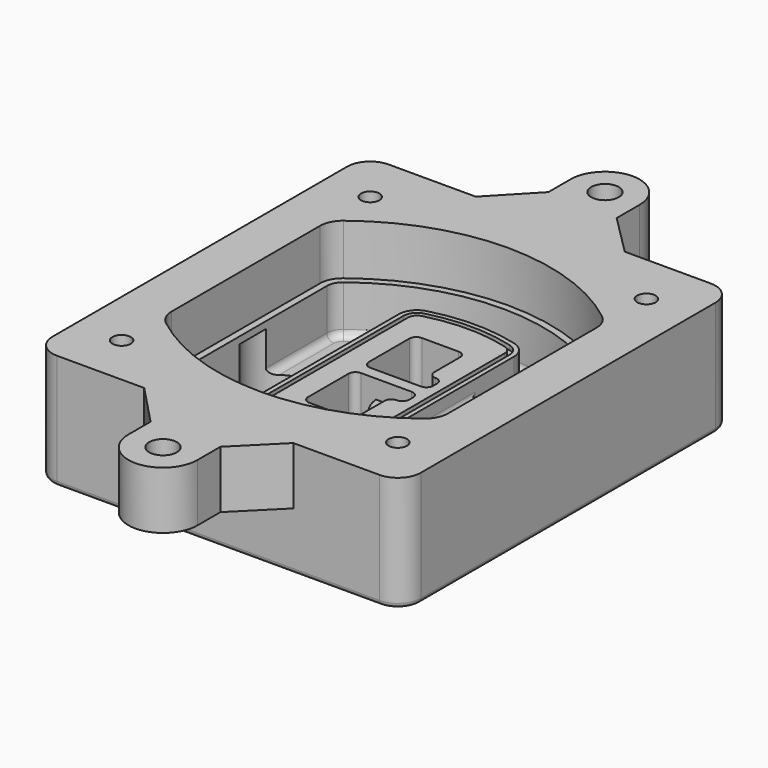
from build123d import *

# Parameters (mm, degrees)
F0_R      = 4
F1_DEPTH  = 25
F2_DEPTH  = 3
F3_DEPTH  = 18
F5_DEPTH  = 21
F6_DEPTH  = 2
F8_DEPTH  = 20
F9_DEPTH  = 16
F10_DEPTH = 25
F7_R      = 6
F7_R_2    = 4
F11_DEPTH = 6
F13_DEPTH = 9
F14_R     = 3
F15_R     = 2
F16_R     = 6
F16_R_2   = 4
F17_DEPTH = 25


with BuildPart() as f1:
    # F0 (on Top) → F1 (new body)
    with BuildSketch(Plane.XY):
        with BuildLine():
            ThreePointArc((-80, -80), (-77.0710678119, -87.0710678119), (-70, -90))
            Line((-70, -90), (70, -90))
            ThreePointArc((70, -90), (77.0710678119, -87.0710678119), (80, -80))
            Line((80, -80), (80, 80))
            ThreePointArc((80, 80), (77.0710678119, 87.0710678119), (70, 90))
            Line((70, 90), (-70, 90))
            ThreePointArc((-70, 90), (-77.0710678119, 87.0710678119), (-80, 80))
            Line((-80, 80), (-80, -80))
        make_face()
        with Locations((-60, -67.5)):
            Circle(F0_R, mode=Mode.SUBTRACT)
        with Locations((60, -67.5)):
            Circle(F0_R, mode=Mode.SUBTRACT)
        with Locations((-60, 67.5)):
            Circle(F0_R, mode=Mode.SUBTRACT)
        with BuildLine():
            ThreePointArc((-64, 40.2934422872), (-62.5820384798, 46.4328484224), (-58.6153846154, 51.3286200352))
            ThreePointArc((-58.6153846154, 51.3286200352), (0, 71.5), (58.6153846154, 51.3286200352))
            ThreePointArc((58.6153846154, 51.3286200352), (62.5820384798, 46.4328484224), (64, 40.2934422872))
            Line((64, 40.2934422872), (64, -40.2934422872))
            ThreePointArc((64, -40.2934422872), (62.5820384798, -46.4328484224), (58.6153846154, -51.3286200352))
            ThreePointArc((58.6153846154, -51.3286200352), (0, -71.5), (-58.6153846154, -51.3286200352))
            ThreePointArc((-58.6153846154, -51.3286200352), (-62.5820384798, -46.4328484224), (-64, -40.2934422872))
            Line((-64, -40.2934422872), (-64, 40.2934422872))
        make_face(mode=Mode.SUBTRACT)
        with Locations((60, 67.5)):
            Circle(F0_R, mode=Mode.SUBTRACT)
        with BuildLine():
            ThreePointArc((58.6153846154, 51.3286200352), (0, 71.5), (-58.6153846154, 51.3286200352))
            ThreePointArc((-58.6153846154, 51.3286200352), (-62.5820384798, 46.4328484224), (-64, 40.2934422872))
            Line((-64, 40.2934422872), (-64, -40.2934422872))
            ThreePointArc((-64, -40.2934422872), (-62.5820384798, -46.4328484224), (-58.6153846154, -51.3286200352))
            ThreePointArc((-58.6153846154, -51.3286200352), (0, -71.5), (58.6153846154, -51.3286200352))
            ThreePointArc((58.6153846154, -51.3286200352), (62.5820384798, -46.4328484224), (64, -40.2934422872))
            Line((64, -40.2934422872), (64, 40.2934422872))
            ThreePointArc((64, 40.2934422872), (62.5820384798, 46.4328484224), (58.6153846154, 51.3286200352))
        make_face()
        with BuildLine():
            Line((-60, -40.2934422872), (-60, 40.2934422872))
            ThreePointArc((-60, 40.2934422872), (-58.9871703427, 44.6787323838), (-56.1538461538, 48.1757121072))
            ThreePointArc((-56.1538461538, 48.1757121072), (0, 67.5), (56.1538461538, 48.1757121072))
            ThreePointArc((56.1538461538, 48.1757121072), (58.9871703427, 44.6787323838), (60, 40.2934422872))
            Line((60, 40.2934422872), (60, -40.2934422872))
            ThreePointArc((60, -40.2934422872), (58.9871703427, -44.6787323838), (56.1538461538, -48.1757121072))
            ThreePointArc((56.1538461538, -48.1757121072), (0, -67.5), (-56.1538461538, -48.1757121072))
            ThreePointArc((-56.1538461538, -48.1757121072), (-58.9871703427, -44.6787323838), (-60, -40.2934422872))
        make_face(mode=Mode.SUBTRACT)
        with BuildLine():
            ThreePointArc((-56.1538461538, 48.1757121072), (-58.9871703427, 44.6787323838), (-60, 40.2934422872))
            Line((-60, 40.2934422872), (-60, -40.2934422872))
            ThreePointArc((-60, -40.2934422872), (-58.9871703427, -44.6787323838), (-56.1538461538, -48.1757121072))
            ThreePointArc((-56.1538461538, -48.1757121072), (0, -67.5), (56.1538461538, -48.1757121072))
            ThreePointArc((56.1538461538, -48.1757121072), (58.9871703427, -44.6787323838), (60, -40.2934422872))
            Line((60, -40.2934422872), (60, 40.2934422872))
            ThreePointArc((60, 40.2934422872), (58.9871703427, 44.6787323838), (56.1538461538, 48.1757121072))
            ThreePointArc((56.1538461538, 48.1757121072), (0, 67.5), (-56.1538461538, 48.1757121072))
        make_face()
        with BuildLine():
            ThreePointArc((54.3076923077, 45.8110311612), (56.2910192399, 43.3631453548), (57, 40.2934422872))
            Line((57, 40.2934422872), (57, -40.2934422872))
            ThreePointArc((57, -40.2934422872), (56.2910192399, -43.3631453548), (54.3076923077, -45.8110311612))
            ThreePointArc((54.3076923077, -45.8110311612), (0, -64.5), (-54.3076923077, -45.8110311612))
            ThreePointArc((-54.3076923077, -45.8110311612), (-56.2910192399, -43.3631453548), (-57, -40.2934422872))
            Line((-57, -40.2934422872), (-57, 40.2934422872))
            ThreePointArc((-57, 40.2934422872), (-56.2910192399, 43.3631453548), (-54.3076923077, 45.8110311612))
            ThreePointArc((-54.3076923077, 45.8110311612), (0, 64.5), (54.3076923077, 45.8110311612))
        make_face(mode=Mode.SUBTRACT)
        with BuildLine():
            Line((57, -40.2934422872), (57, 40.2934422872))
            ThreePointArc((57, 40.2934422872), (56.2910192399, 43.3631453548), (54.3076923077, 45.8110311612))
            ThreePointArc((54.3076923077, 45.8110311612), (0, 64.5), (-54.3076923077, 45.8110311612))
            ThreePointArc((-54.3076923077, 45.8110311612), (-56.2910192399, 43.3631453548), (-57, 40.2934422872))
            Line((-57, 40.2934422872), (-57, -40.2934422872))
            ThreePointArc((-57, -40.2934422872), (-56.2910192399, -43.3631453548), (-54.3076923077, -45.8110311612))
            ThreePointArc((-54.3076923077, -45.8110311612), (0, -64.5), (54.3076923077, -45.8110311612))
            ThreePointArc((54.3076923077, -45.8110311612), (56.2910192399, -43.3631453548), (57, -40.2934422872))
        make_face()
    extrude(amount=-F1_DEPTH)

    # F0 (on Top) → F2 (join)
    with BuildSketch(Plane.XY):
        with BuildLine():
            ThreePointArc((-56.1538461538, 48.1757121072), (-58.9871703427, 44.6787323838), (-60, 40.2934422872))
            Line((-60, 40.2934422872), (-60, -40.2934422872))
            ThreePointArc((-60, -40.2934422872), (-58.9871703427, -44.6787323838), (-56.1538461538, -48.1757121072))
            ThreePointArc((-56.1538461538, -48.1757121072), (0, -67.5), (56.1538461538, -48.1757121072))
            ThreePointArc((56.1538461538, -48.1757121072), (58.9871703427, -44.6787323838), (60, -40.2934422872))
            Line((60, -40.2934422872), (60, 40.2934422872))
            ThreePointArc((60, 40.2934422872), (58.9871703427, 44.6787323838), (56.1538461538, 48.1757121072))
            ThreePointArc((56.1538461538, 48.1757121072), (0, 67.5), (-56.1538461538, 48.1757121072))
        make_face()
        with BuildLine():
            ThreePointArc((54.3076923077, 45.8110311612), (56.2910192399, 43.3631453548), (57, 40.2934422872))
            Line((57, 40.2934422872), (57, -40.2934422872))
            ThreePointArc((57, -40.2934422872), (56.2910192399, -43.3631453548), (54.3076923077, -45.8110311612))
            ThreePointArc((54.3076923077, -45.8110311612), (0, -64.5), (-54.3076923077, -45.8110311612))
            ThreePointArc((-54.3076923077, -45.8110311612), (-56.2910192399, -43.3631453548), (-57, -40.2934422872))
            Line((-57, -40.2934422872), (-57, 40.2934422872))
            ThreePointArc((-57, 40.2934422872), (-56.2910192399, 43.3631453548), (-54.3076923077, 45.8110311612))
            ThreePointArc((-54.3076923077, 45.8110311612), (0, 64.5), (54.3076923077, 45.8110311612))
        make_face(mode=Mode.SUBTRACT)
    extrude(amount=F2_DEPTH)

    # F0 (on Top) → F3 (cut)
    with BuildSketch(Plane.XY):
        with BuildLine():
            Line((57, -40.2934422872), (57, 40.2934422872))
            ThreePointArc((57, 40.2934422872), (56.2910192399, 43.3631453548), (54.3076923077, 45.8110311612))
            ThreePointArc((54.3076923077, 45.8110311612), (0, 64.5), (-54.3076923077, 45.8110311612))
            ThreePointArc((-54.3076923077, 45.8110311612), (-56.2910192399, 43.3631453548), (-57, 40.2934422872))
            Line((-57, 40.2934422872), (-57, -40.2934422872))
            ThreePointArc((-57, -40.2934422872), (-56.2910192399, -43.3631453548), (-54.3076923077, -45.8110311612))
            ThreePointArc((-54.3076923077, -45.8110311612), (0, -64.5), (54.3076923077, -45.8110311612))
            ThreePointArc((54.3076923077, -45.8110311612), (56.2910192399, -43.3631453548), (57, -40.2934422872))
        make_face()
    extrude(amount=-F3_DEPTH, mode=Mode.SUBTRACT)

    # F4 (on face) → F5 (join, through all)
    with BuildSketch(Plane.XY.offset(3)):
        with BuildLine():
            ThreePointArc((-25, -39.2465276821), (-23.3511545998, -44.1109737193), (-19.0842911877, -46.9702398883))
            ThreePointArc((-19.0842911877, -46.9702398883), (0, -49.5), (19.0842911877, -46.9702398883))
            ThreePointArc((19.0842911877, -46.9702398883), (23.3511545998, -44.1109737193), (25, -39.2465276821))
            Line((25, -39.2465276821), (25, 39.2465276821))
            ThreePointArc((25, 39.2465276821), (23.3511545998, 44.1109737193), (19.0842911877, 46.9702398883))
            ThreePointArc((19.0842911877, 46.9702398883), (0, 49.5), (-19.0842911877, 46.9702398883))
            ThreePointArc((-19.0842911877, 46.9702398883), (-23.3511545998, 44.1109737193), (-25, 39.2465276821))
            Line((-25, 39.2465276821), (-25, -39.2465276821))
        make_face()
        with BuildLine():
            ThreePointArc((18.5632183908, 45.0393118368), (21.7633659499, 42.89486221), (23, 39.2465276821))
            Line((23, 39.2465276821), (23, -39.2465276821))
            ThreePointArc((23, -39.2465276821), (21.7633659499, -42.89486221), (18.5632183908, -45.0393118368))
            ThreePointArc((18.5632183908, -45.0393118368), (0, -47.5), (-18.5632183908, -45.0393118368))
            ThreePointArc((-18.5632183908, -45.0393118368), (-21.7633659499, -42.89486221), (-23, -39.2465276821))
            Line((-23, -39.2465276821), (-23, 39.2465276821))
            ThreePointArc((-23, 39.2465276821), (-21.7633659499, 42.89486221), (-18.5632183908, 45.0393118368))
            ThreePointArc((-18.5632183908, 45.0393118368), (0, 47.5), (18.5632183908, 45.0393118368))
        make_face(mode=Mode.SUBTRACT)
        with BuildLine():
            Line((23, -39.2465276821), (23, 39.2465276821))
            ThreePointArc((23, 39.2465276821), (21.7633659499, 42.89486221), (18.5632183908, 45.0393118368))
            ThreePointArc((18.5632183908, 45.0393118368), (0, 47.5), (-18.5632183908, 45.0393118368))
            ThreePointArc((-18.5632183908, 45.0393118368), (-21.7633659499, 42.89486221), (-23, 39.2465276821))
            Line((-23, 39.2465276821), (-23, -39.2465276821))
            ThreePointArc((-23, -39.2465276821), (-21.7633659499, -42.89486221), (-18.5632183908, -45.0393118368))
            ThreePointArc((-18.5632183908, -45.0393118368), (0, -47.5), (18.5632183908, -45.0393118368))
            ThreePointArc((18.5632183908, -45.0393118368), (21.7633659499, -42.89486221), (23, -39.2465276821))
        make_face()
        with BuildLine():
            ThreePointArc((18.0421455939, 43.1083837852), (20.1755772999, 41.6787507007), (21, 39.2465276821))
            Line((21, 39.2465276821), (21, -39.2465276821))
            ThreePointArc((21, -39.2465276821), (20.1755772999, -41.6787507007), (18.0421455939, -43.1083837852))
            ThreePointArc((18.0421455939, -43.1083837852), (0, -45.5), (-18.0421455939, -43.1083837852))
            ThreePointArc((-18.0421455939, -43.1083837852), (-20.1755772999, -41.6787507007), (-21, -39.2465276821))
            Line((-21, -39.2465276821), (-21, 39.2465276821))
            ThreePointArc((-21, 39.2465276821), (-20.1755772999, 41.6787507007), (-18.0421455939, 43.1083837852))
            ThreePointArc((-18.0421455939, 43.1083837852), (0, 45.5), (18.0421455939, 43.1083837852))
        make_face(mode=Mode.SUBTRACT)
        with BuildLine():
            Line((21, -39.2465276821), (21, 39.2465276821))
            ThreePointArc((21, 39.2465276821), (20.1755772999, 41.6787507007), (18.0421455939, 43.1083837852))
            ThreePointArc((18.0421455939, 43.1083837852), (0, 45.5), (-18.0421455939, 43.1083837852))
            ThreePointArc((-18.0421455939, 43.1083837852), (-20.1755772999, 41.6787507007), (-21, 39.2465276821))
            Line((-21, 39.2465276821), (-21, -39.2465276821))
            ThreePointArc((-21, -39.2465276821), (-20.1755772999, -41.6787507007), (-18.0421455939, -43.1083837852))
            ThreePointArc((-18.0421455939, -43.1083837852), (0, -45.5), (18.0421455939, -43.1083837852))
            ThreePointArc((18.0421455939, -43.1083837852), (20.1755772999, -41.6787507007), (21, -39.2465276821))
        make_face()
        with BuildLine():
            Line((-8, -2.5), (14, -2.5))
            ThreePointArc((14, -2.5), (16.1213203436, -3.3786796564), (17, -5.5))
            Line((17, -5.5), (17, -7.5))
            ThreePointArc((17, -7.5), (16.1213203436, -9.6213203436), (14, -10.5))
            ThreePointArc((14, -10.5), (11.8786796564, -11.3786796564), (11, -13.5))
            Line((11, -13.5), (11, -27.5))
            ThreePointArc((11, -27.5), (10.1213203436, -29.6213203436), (8, -30.5))
            Line((8, -30.5), (-8, -30.5))
            ThreePointArc((-8, -30.5), (-10.1213203436, -29.6213203436), (-11, -27.5))
            Line((-11, -27.5), (-11, -5.5))
            ThreePointArc((-11, -5.5), (-10.1213203436, -3.3786796564), (-8, -2.5))
        make_face(mode=Mode.SUBTRACT)
        with BuildLine():
            ThreePointArc((-8, 2.5), (-10.1213203436, 3.3786796564), (-11, 5.5))
            Line((-11, 5.5), (-11, 27.5))
            ThreePointArc((-11, 27.5), (-10.1213203436, 29.6213203436), (-8, 30.5))
            Line((-8, 30.5), (8, 30.5))
            ThreePointArc((8, 30.5), (10.1213203436, 29.6213203436), (11, 27.5))
            Line((11, 27.5), (11, 13.5))
            ThreePointArc((11, 13.5), (11.8786796564, 11.3786796564), (14, 10.5))
            ThreePointArc((14, 10.5), (16.1213203436, 9.6213203436), (17, 7.5))
            Line((17, 7.5), (17, 5.5))
            ThreePointArc((17, 5.5), (16.1213203436, 3.3786796564), (14, 2.5))
            Line((14, 2.5), (-8, 2.5))
        make_face(mode=Mode.SUBTRACT)
    extrude(amount=-F5_DEPTH)

    # F4 (on face) → F6 (cut)
    with BuildSketch(Plane.XY.offset(3)):
        with BuildLine():
            Line((23, -39.2465276821), (23, 39.2465276821))
            ThreePointArc((23, 39.2465276821), (21.7633659499, 42.89486221), (18.5632183908, 45.0393118368))
            ThreePointArc((18.5632183908, 45.0393118368), (0, 47.5), (-18.5632183908, 45.0393118368))
            ThreePointArc((-18.5632183908, 45.0393118368), (-21.7633659499, 42.89486221), (-23, 39.2465276821))
            Line((-23, 39.2465276821), (-23, -39.2465276821))
            ThreePointArc((-23, -39.2465276821), (-21.7633659499, -42.89486221), (-18.5632183908, -45.0393118368))
            ThreePointArc((-18.5632183908, -45.0393118368), (0, -47.5), (18.5632183908, -45.0393118368))
            ThreePointArc((18.5632183908, -45.0393118368), (21.7633659499, -42.89486221), (23, -39.2465276821))
        make_face()
        with BuildLine():
            ThreePointArc((18.0421455939, 43.1083837852), (20.1755772999, 41.6787507007), (21, 39.2465276821))
            Line((21, 39.2465276821), (21, -39.2465276821))
            ThreePointArc((21, -39.2465276821), (20.1755772999, -41.6787507007), (18.0421455939, -43.1083837852))
            ThreePointArc((18.0421455939, -43.1083837852), (0, -45.5), (-18.0421455939, -43.1083837852))
            ThreePointArc((-18.0421455939, -43.1083837852), (-20.1755772999, -41.6787507007), (-21, -39.2465276821))
            Line((-21, -39.2465276821), (-21, 39.2465276821))
            ThreePointArc((-21, 39.2465276821), (-20.1755772999, 41.6787507007), (-18.0421455939, 43.1083837852))
            ThreePointArc((-18.0421455939, 43.1083837852), (0, 45.5), (18.0421455939, 43.1083837852))
        make_face(mode=Mode.SUBTRACT)
    extrude(amount=-F6_DEPTH, mode=Mode.SUBTRACT)

    # F7 (on face) → F8 (join)
    with BuildSketch(Plane(origin=(0, 0, -25), x_dir=(1, 0, 0), z_dir=(0, 0, -1))):
        with BuildLine():
            ThreePointArc((3.28842436, 0), (16.7567035675, 13.4682792075), (30.224982775, 0))
            Line((30.224982775, 0), (35.224982775, 0))
            ThreePointArc((35.224982775, 0), (16.7567035675, 18.4682792075), (-1.71157564, 0))
            Line((-1.71157564, 0), (3.28842436, 0))
        make_face()
        with BuildLine():
            Line((3.28842436, 0), (30.224982775, 0))
            ThreePointArc((30.224982775, 0), (16.7567035675, 13.4682792075), (3.28842436, 0))
        make_face()
        with BuildLine():
            ThreePointArc((3.28842436, 0), (16.7567035675, -13.4682792075), (30.224982775, 0))
            Line((30.224982775, 0), (3.28842436, 0))
        make_face()
        with BuildLine():
            Line((35.224982775, 0), (30.224982775, 0))
            ThreePointArc((30.224982775, 0), (16.7567035675, -13.4682792075), (3.28842436, 0))
            Line((3.28842436, 0), (-1.71157564, 0))
            ThreePointArc((-1.71157564, 0), (16.7567035675, -18.4682792075), (35.224982775, 0))
        make_face()
    extrude(amount=-F8_DEPTH)

    # F7 (on face) → F9 (cut)
    with BuildSketch(Plane(origin=(0, 0, -25), x_dir=(1, 0, 0), z_dir=(0, 0, -1))):
        with BuildLine():
            Line((3.28842436, 0), (30.224982775, 0))
            ThreePointArc((30.224982775, 0), (16.7567035675, 13.4682792075), (3.28842436, 0))
        make_face()
        with BuildLine():
            ThreePointArc((3.28842436, 0), (16.7567035675, -13.4682792075), (30.224982775, 0))
            Line((30.224982775, 0), (3.28842436, 0))
        make_face()
    extrude(amount=-F9_DEPTH, mode=Mode.SUBTRACT)

    # F7 (on face) → F10 (cut)
    with BuildSketch(Plane(origin=(0, 0, -25), x_dir=(1, 0, 0), z_dir=(0, 0, -1))):
        with BuildLine():
            Line((-59.0318229325, 0), (-32.0952645175, 0))
            ThreePointArc((-32.0952645175, 0), (-45.563543725, 13.4682792075), (-59.0318229325, 0))
        make_face()
        with BuildLine():
            ThreePointArc((-59.0318229325, 0), (-45.563543725, -13.4682792075), (-32.0952645175, 0))
            Line((-32.0952645175, 0), (-59.0318229325, 0))
        make_face()
    extrude(amount=-F10_DEPTH, mode=Mode.SUBTRACT)

    # F7 (on face) → F11 (cut)
    with BuildSketch(Plane(origin=(0, 0, -25), x_dir=(1, 0, 0), z_dir=(0, 0, -1))):
        with Locations((60, -67.5)):
            Circle(F7_R)
        with Locations((60, -67.5)):
            Circle(F7_R_2, mode=Mode.SUBTRACT)
        with Locations((60, -67.5)):
            Circle(F7_R)
        with Locations((60, -67.5)):
            Circle(F7_R_2, mode=Mode.SUBTRACT)
        with Locations((-60, -67.5)):
            Circle(F7_R)
        with Locations((-60, -67.5)):
            Circle(F7_R_2, mode=Mode.SUBTRACT)
        with Locations((-60, -67.5)):
            Circle(F7_R)
        with Locations((-60, -67.5)):
            Circle(F7_R_2, mode=Mode.SUBTRACT)
        with Locations((-60, 67.5)):
            Circle(F7_R)
        with Locations((-60, 67.5)):
            Circle(F7_R_2, mode=Mode.SUBTRACT)
        with Locations((-60, 67.5)):
            Circle(F7_R)
        with Locations((-60, 67.5)):
            Circle(F7_R_2, mode=Mode.SUBTRACT)
        with Locations((60, 67.5)):
            Circle(F7_R)
        with Locations((60, 67.5)):
            Circle(F7_R_2, mode=Mode.SUBTRACT)
        with Locations((60, 67.5)):
            Circle(F7_R)
        with Locations((60, 67.5)):
            Circle(F7_R_2, mode=Mode.SUBTRACT)
    extrude(amount=-F11_DEPTH, mode=Mode.SUBTRACT)

    # F12 (on face) → F13 (cut, through all)
    with BuildSketch(Plane(origin=(0, 0, -9), x_dir=(1, 0, 0), z_dir=(0, 0, -1))):
        with BuildLine():
            Line((11, 13.5), (11, 17.5481537753))
            ThreePointArc((11, 17.5481537753), (2.5696536419, 11.8239143813), (-1.5415842455, 2.5))
            Line((-1.5415842455, 2.5), (3.5224848595, 2.5))
            ThreePointArc((3.5224848595, 2.5), (6.1857188154, 8.3455872281), (11.2536447004, 12.2927168648))
            ThreePointArc((11.2536447004, 12.2927168648), (11.0640958889, 12.8831798879), (11, 13.5))
        make_face()
        with BuildLine():
            ThreePointArc((11.2536447004, -12.2927168648), (6.1857188154, -8.3455872281), (3.5224848595, -2.5))
            Line((3.5224848595, -2.5), (-1.5415842455, -2.5))
            ThreePointArc((-1.5415842455, -2.5), (2.5696536419, -11.8239143813), (11, -17.5481537753))
            Line((11, -17.5481537753), (11, -13.5))
            ThreePointArc((11, -13.5), (11.0640958889, -12.8831798879), (11.2536447004, -12.2927168648))
        make_face()
        with BuildLine():
            ThreePointArc((11.2536447004, 12.2927168648), (6.1857188154, 8.3455872281), (3.5224848595, 2.5))
            Line((3.5224848595, 2.5), (14, 2.5))
            ThreePointArc((14, 2.5), (16.1213203436, 3.3786796564), (17, 5.5))
            Line((17, 5.5), (17, 7.5))
            ThreePointArc((17, 7.5), (16.1213203436, 9.6213203436), (14, 10.5))
            ThreePointArc((14, 10.5), (12.3601599782, 10.9878446101), (11.2536447004, 12.2927168648))
        make_face()
        with BuildLine():
            Line((14, -2.5), (3.5224848595, -2.5))
            ThreePointArc((3.5224848595, -2.5), (6.1857188154, -8.3455872281), (11.2536447004, -12.2927168648))
            ThreePointArc((11.2536447004, -12.2927168648), (12.3601599782, -10.9878446101), (14, -10.5))
            ThreePointArc((14, -10.5), (16.1213203436, -9.6213203436), (17, -7.5))
            Line((17, -7.5), (17, -5.5))
            ThreePointArc((17, -5.5), (16.1213203436, -3.3786796564), (14, -2.5))
        make_face()
    extrude(amount=F13_DEPTH, mode=Mode.SUBTRACT)

    # F14
    f14_edges = [f1.edges().sort_by_distance(p)[0] for p in [
        (-57, -23.703476, -18),
        (-57, 23.703476, -18),
        (25, 0, -5),
        (25, 16.526506, -11.5),
        (25, -16.526506, -11.5),
        (25, -27.886517, -18),
        (35.224983, 0, -18),
    ]]
    fillet(f14_edges, radius=F14_R)

    # F15
    f15_edges = [f1.edges().sort_by_distance(p)[0] for p in [
        (0, -90, -25),
    ]]
    fillet(f15_edges, radius=F15_R)

    # F16 (on face) → F17 (join)
    with BuildSketch(Plane.XY):
        with BuildLine():
            Line((-15, 108), (-32.1570428386, 90))
            Line((-32.1570428386, 90), (32.5835735698, 90))
            Line((32.5835735698, 90), (15, 107.5835735698))
            Line((15, 107.5835735698), (15, 120))
            ThreePointArc((15, 120), (0, 135), (-15, 120))
            Line((-15, 120), (-15, 108))
        make_face()
        with Locations((0, 120)):
            Circle(F16_R, mode=Mode.SUBTRACT)
        with BuildLine():
            Line((32.5835735698, 90), (-32.1570428386, 90))
            Line((-32.1570428386, 90), (-70, 90))
            ThreePointArc((-70, 90), (-77.0710678119, 87.0710678119), (-80, 80))
            Line((-80, 80), (-80, 0))
            Line((-80, 0), (-80, -80))
            ThreePointArc((-80, -80), (-77.0710678119, -87.0710678119), (-70, -90))
            Line((-70, -90), (-32.1570428386, -90))
            Line((-32.1570428386, -90), (32.5835735698, -90))
            Line((32.5835735698, -90), (70, -90))
            ThreePointArc((70, -90), (77.0710678119, -87.0710678119), (80, -80))
            Line((80, -80), (80, 80))
            ThreePointArc((80, 80), (77.0710678119, 87.0710678119), (70, 90))
            Line((70, 90), (32.5835735698, 90))
        make_face()
        with Locations((-60, -67.5)):
            Circle(F16_R_2, mode=Mode.SUBTRACT)
        with Locations((60, -67.5)):
            Circle(F16_R_2, mode=Mode.SUBTRACT)
        with Locations((-60, 67.5)):
            Circle(F16_R_2, mode=Mode.SUBTRACT)
        with BuildLine():
            Line((-60, -40.2934422872), (-60, 0))
            Line((-60, 0), (-60, 40.2934422872))
            ThreePointArc((-60, 40.2934422872), (-58.9871703427, 44.6787323838), (-56.1538461538, 48.1757121072))
            ThreePointArc((-56.1538461538, 48.1757121072), (0, 67.5), (56.1538461538, 48.1757121072))
            ThreePointArc((56.1538461538, 48.1757121072), (58.9871703427, 44.6787323838), (60, 40.2934422872))
            Line((60, 40.2934422872), (60, -40.2934422872))
            ThreePointArc((60, -40.2934422872), (58.9871703427, -44.6787323838), (56.1538461538, -48.1757121072))
            ThreePointArc((56.1538461538, -48.1757121072), (0, -67.5), (-56.1538461538, -48.1757121072))
            ThreePointArc((-56.1538461538, -48.1757121072), (-58.9871703427, -44.6787323838), (-60, -40.2934422872))
        make_face(mode=Mode.SUBTRACT)
        with Locations((60, 67.5)):
            Circle(F16_R_2, mode=Mode.SUBTRACT)
        with BuildLine():
            Line((15, -107.5835735698), (32.5835735698, -90))
            Line((32.5835735698, -90), (-32.1570428386, -90))
            Line((-32.1570428386, -90), (-15, -108))
            Line((-15, -108), (-15, -120))
            ThreePointArc((-15, -120), (0, -135), (15, -120))
            Line((15, -120), (15, -107.5835735698))
        make_face()
        with Locations((0, -120)):
            Circle(F16_R, mode=Mode.SUBTRACT)
    extrude(amount=F17_DEPTH)


solid = f1.part
